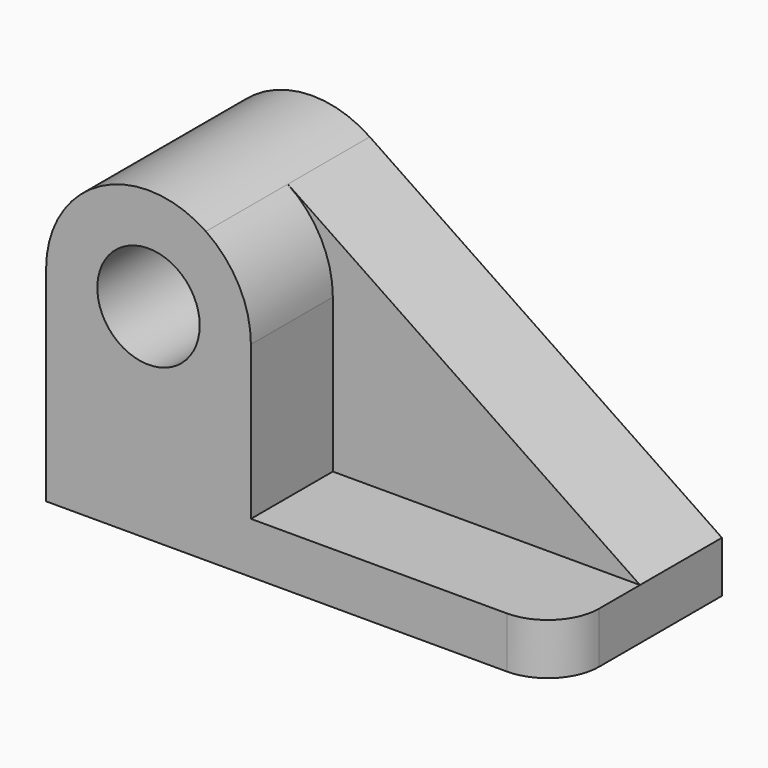
from build123d import *

# Parameters (mm, degrees)
F0_R     = 12.7
F1_DEPTH = 25.4
F2_R     = 12.7
F3_DEPTH = 25.4
F4_R     = 12.7


with BuildPart() as f1:
    # F0 (on Front) → F1 (new body)
    with BuildSketch(Plane.XZ):
        with BuildLine():
            Line((55.243076, -6.21413), (-32.111921, 52.916597))
            ThreePointArc((-32.111921, 52.916597), (-58.254618, 54.319874), (-71.749997, 31.88587))
            Line((-71.749997, 31.88587), (-71.756924, -18.91413))
            Line((-71.756924, -18.91413), (55.243076, -18.91413))
            Line((55.243076, -18.91413), (55.243076, -6.21413))
        make_face()
        with Locations((-46.349997, 31.882406)):
            Circle(F0_R, mode=Mode.SUBTRACT)
    extrude(amount=F1_DEPTH)

    # F2 (on face) → F3 (join)
    with BuildSketch(Plane.XZ.offset(25.4)):
        with BuildLine():
            Line((-20.949997, -6.21413), (-20.949997, 31.882406))
            ThreePointArc((-20.949997, 31.882406), (-23.91334, 43.788557), (-32.111921, 52.916597))
            ThreePointArc((-32.111921, 52.916597), (-58.254618, 54.319874), (-71.749997, 31.88587))
            Line((-71.749997, 31.88587), (-71.755192, -6.21413))
            Line((-71.755192, -6.21413), (-71.756058, -12.56413))
            Line((-71.756058, -12.56413), (-71.756924, -18.91413))
            Line((-71.756924, -18.91413), (55.243076, -18.91413))
            Line((55.243076, -18.91413), (55.243076, -6.21413))
            Line((55.243076, -6.21413), (-20.949997, -6.21413))
        make_face()
        with Locations((-46.349997, 31.882406)):
            Circle(F2_R, mode=Mode.SUBTRACT)
    extrude(amount=F3_DEPTH)

    # F4
    f4_edges = [f1.edges().sort_by_distance(p)[0] for p in [
        (55.243076, -50.8, -12.56413),
    ]]
    fillet(f4_edges, radius=F4_R)


solid = f1.part
